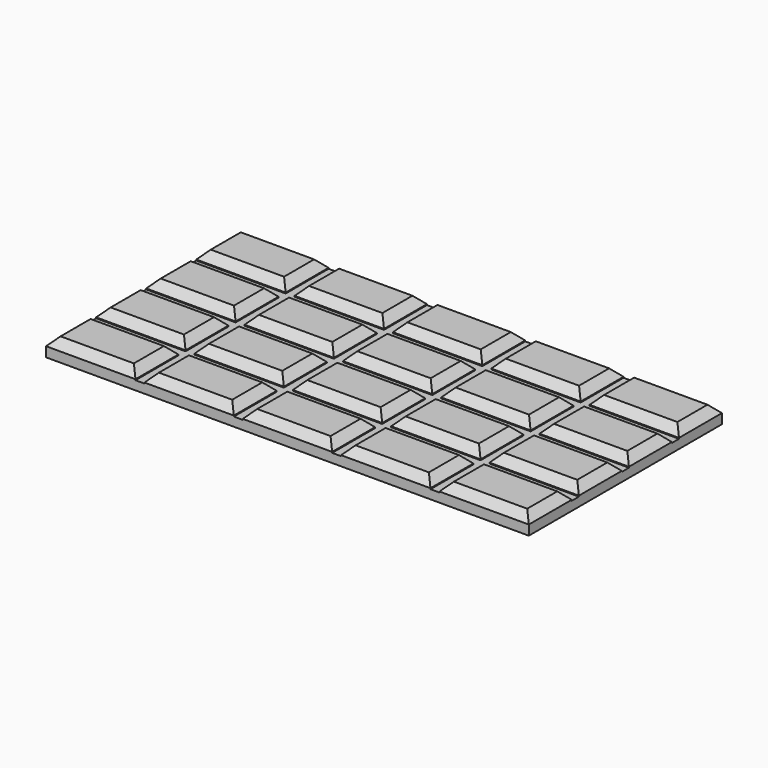
from build123d import *

# Parameters (mm, degrees)
BOX001_W      = 10
BOX001_H      = 6
BOX001_DEPTH  = 1
CHAMFER_SIZE  = 0.9
ARRAY_X_COUNT = 5
ARRAY_X_PITCH = 11
ARRAY_Y_COUNT = 4
ARRAY_Y_PITCH = 7
BOX_W         = 54
BOX_H         = 27
BOX_DEPTH     = 1


with BuildPart() as array:
    # Box001 → Box001 (new body)
    with BuildSketch(Plane.XY.offset(1)):
        with Locations((5, 3)):
            Rectangle(BOX001_W, BOX001_H)
    extrude(amount=BOX001_DEPTH)

    # Chamfer
    chamfer_edges = [array.edges().sort_by_distance(p)[0] for p in [
        (0, 3, 2),
        (10, 3, 2),
        (5, 0, 2),
        (5, 6, 2),
    ]]
    chamfer(chamfer_edges, length=CHAMFER_SIZE)

    # Array X: Array ×5


with BuildPart() as array_1:
    add(array.part)
    with Locations(*[(i * ARRAY_X_PITCH, 0, 0) for i in range(1, ARRAY_X_COUNT)]):
        add(array.part)

    # Array Y: Array ×4


with BuildPart() as array_2:
    add(array_1.part)
    with Locations(*[(0, i * ARRAY_Y_PITCH, 0) for i in range(1, ARRAY_Y_COUNT)]):
        add(array_1.part)


with BuildPart() as fusion:
    # Box → Box (new body)
    with BuildSketch(Plane.XY):
        with Locations((27, 13.5)):
            Rectangle(BOX_W, BOX_H)
    extrude(amount=BOX_DEPTH)

    # Fusion: union Array
    add(array_2.part)


solid = fusion.part
